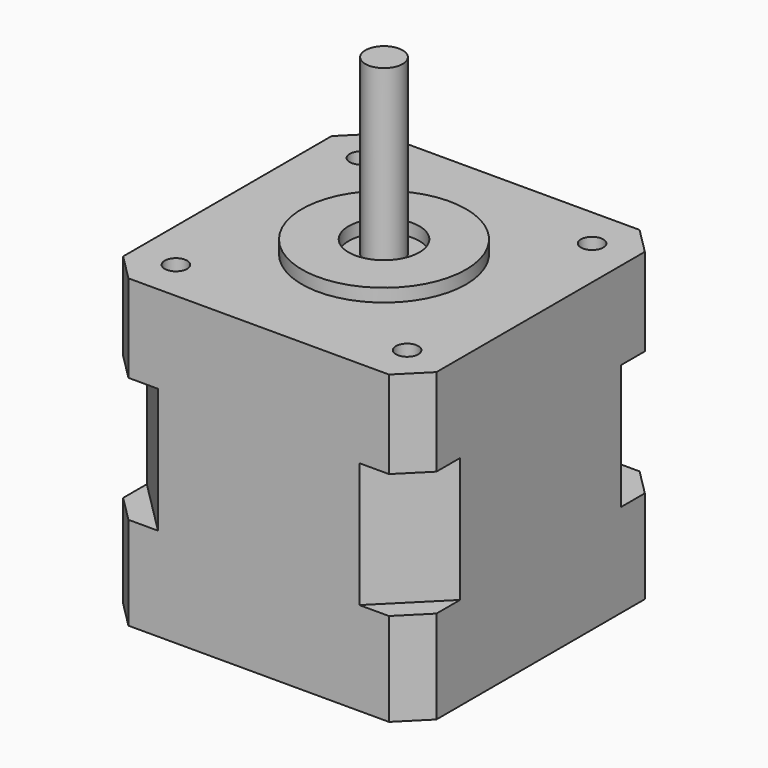
from build123d import *

# Parameters (mm, degrees)
F1_DEPTH  = 12.5
F3_DEPTH  = 16.75
F4_START  = 29.25
F4_DEPTH  = 11.75
F5_R      = 1.5
F6_DEPTH  = 5.5
F7_R      = 11
F7_R_2    = 4.75
F8_DEPTH  = 1.75
F9_R      = 2.5
F10_DEPTH = 23.25


with BuildPart() as f1:
    # F0 (on Top) → F1 (new body)
    with BuildSketch(Plane.XY):
        Polygon((17.4644660941, 21), (-17.4644660941, 21), (-21, 17.4644660941), (-21, -17.4644660941), (-17.4644660941, -21), (17.4644660941, -21), (21, -17.4644660941), (21, 17.4644660941), align=None)
    extrude(amount=F1_DEPTH)

    # F2 (on face) → F3 (join)
    with BuildSketch(Plane.XY.offset(12.5)):
        Polygon((13.5000012147, 21), (-13.4999987853, 21), (-21, 13.4999987853), (-21, -13.5000012147), (-13.5000012147, -21), (13.4999987853, -21), (21, -13.4999987853), (21, 13.5000012147), align=None)
    extrude(amount=F3_DEPTH)

    # F0 (on Top) → F4 (join)
    with BuildSketch(Plane.XY.offset(F4_START)):
        Polygon((17.4644660941, 21), (-17.4644660941, 21), (-21, 17.4644660941), (-21, -17.4644660941), (-17.4644660941, -21), (17.4644660941, -21), (21, -17.4644660941), (21, 17.4644660941), align=None)
    extrude(amount=F4_DEPTH)

    # F5 (on face) → F6 (cut)
    with BuildSketch(Plane.XY.offset(41)):
        with Locations((-15.5, 15.5)):
            Circle(F5_R)
        with Locations((15.5, 15.5)):
            Circle(F5_R)
        with Locations((15.5, -15.5)):
            Circle(F5_R)
        with Locations((-15.5, -15.5)):
            Circle(F5_R)
    extrude(amount=-F6_DEPTH, mode=Mode.SUBTRACT)

    # F7 (on face) → F8 (join)
    with BuildSketch(Plane.XY.offset(41)):
        Circle(F7_R)
        Circle(F7_R_2, mode=Mode.SUBTRACT)
    extrude(amount=F8_DEPTH)

    # F9 (on face) → F10 (join)
    with BuildSketch(Plane.XY.offset(41)):
        Circle(F9_R)
    extrude(amount=F10_DEPTH)


solid = f1.part
